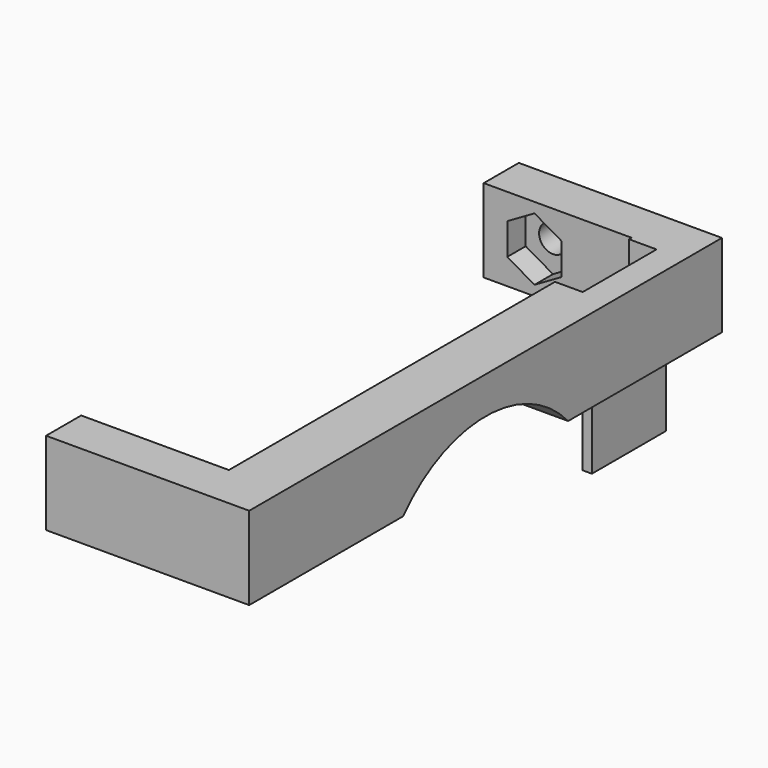
from build123d import *

# Parameters (mm, degrees)
SKETCH_W        = 22
SKETCH_H        = 64
PAD_DEPTH       = 9
SKETCH001_W     = 16
SKETCH001_H     = 54.5
POCKET_DEPTH    = 9.001
SKETCH004_W     = 3
SKETCH004_H     = 10
POCKET001_DEPTH = 9.001
SKETCH003_R     = 15
POCKET002_DEPTH = 22.001
SKETCH006_R     = 1.5
POCKET003_DEPTH = 4.75
POCKET004_DEPTH = 2.5
SKETCH007_W     = 1
SKETCH007_H     = 10
PAD001_DEPTH    = 8


with BuildPart() as part:
    # Sketch → Pad (new body)
    with BuildSketch(Plane.XY):
        Rectangle(SKETCH_W, SKETCH_H)
    extrude(amount=PAD_DEPTH)

    # Sketch001 → Pocket (cut, through all)
    with BuildSketch(Plane.XY.offset(9)):
        with Locations((-3, 0)):
            Rectangle(SKETCH001_W, SKETCH001_H)
    extrude(amount=-POCKET_DEPTH, mode=Mode.SUBTRACT)

    # Sketch004 → Pocket001 (cut, through all)
    with BuildSketch(Plane.XY.offset(9)):
        with Locations((6.5, 21.9)):
            Rectangle(SKETCH004_W, SKETCH004_H)
    extrude(amount=-POCKET001_DEPTH, mode=Mode.SUBTRACT)

    # Sketch003 → Pocket002 (cut, through all)
    with BuildSketch(Plane.YZ.offset(11)):
        with Locations((0, -10)):
            Circle(SKETCH003_R)
    extrude(amount=-POCKET002_DEPTH, mode=Mode.SUBTRACT)

    # Sketch006 → Pocket003 (cut)
    with BuildSketch(Plane(origin=(0, 32, 0), x_dir=(-1, 0, 0), z_dir=(0, 1, 0))):
        with Locations((5.5, 4.5)):
            Circle(SKETCH006_R)
    extrude(amount=-POCKET003_DEPTH, mode=Mode.SUBTRACT)

    # Sketch008 → Pocket004 (cut)
    with BuildSketch(Plane.XZ.offset(-27.25)):
        Polygon((-8.45, 6.203183), (-5.5, 7.906367), (-2.55, 6.203183), (-2.55, 2.796817), (-5.5, 1.093633), (-8.45, 2.796817), align=None)
    extrude(amount=-POCKET004_DEPTH, mode=Mode.SUBTRACT)

    # Sketch007 → Pad001 (new body)
    with BuildSketch(Plane(origin=(0, 0, 0), x_dir=(1, 0, 0), z_dir=(0, 0, -1))):
        with Locations((8.5, -21.9)):
            Rectangle(SKETCH007_W, SKETCH007_H)
    extrude(amount=PAD001_DEPTH)


solid = part.part
